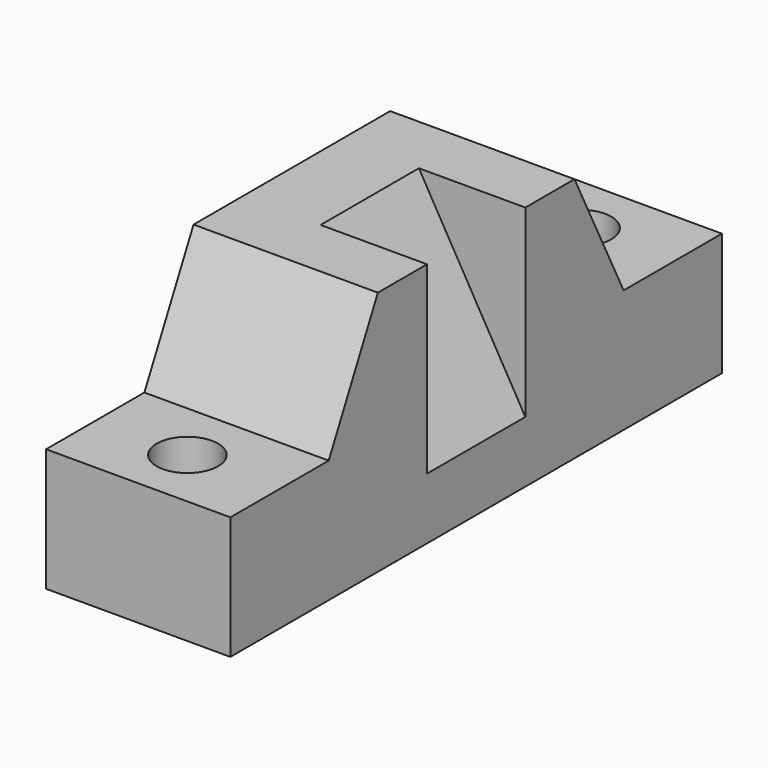
from build123d import *

# Parameters (mm, degrees)
F0_W     = 38.1
F0_H     = 127
F1_DEPTH = 25.4
F3_DEPTH = 38.1
F5_START = -50.8
F5_DEPTH = 25.4
F7_D     = 12.7


with BuildPart() as f1:
    # F0 (on Top) → F1 (new body)
    with BuildSketch(Plane.XY):
        Rectangle(F0_W, F0_H)
    extrude(amount=F1_DEPTH)

    # F2 (on face) → F3 (join, through all)
    with BuildSketch(Plane.YZ.offset(19.05)):
        Polygon((-25.4, 50.8), (-38.1, 25.4), (38.1, 25.4), (25.4, 50.8), align=None)
    extrude(amount=-F3_DEPTH)

    # F4 (on face) → F5 (cut)
    with BuildSketch(Plane(origin=(0, 63.5, 0), x_dir=(-1, 0, 0), z_dir=(0, 1, 0)).offset(F5_START)):
        Polygon((-11.7176515813, 25.4), (2.9470452561, 50.8), (-19.05, 50.8), (-19.05, 25.4), align=None)
        Polygon((-19.05, 12.7), (-11.7176515813, 25.4), (-19.05, 25.4), align=None)
    extrude(amount=-F5_DEPTH, mode=Mode.SUBTRACT)

    # F7 (through all)
    with Locations(Plane.XY.offset(25.4)):
        with Locations((0, -50.8), (0, 50.8)):
            Hole(F7_D / 2)


solid = f1.part
